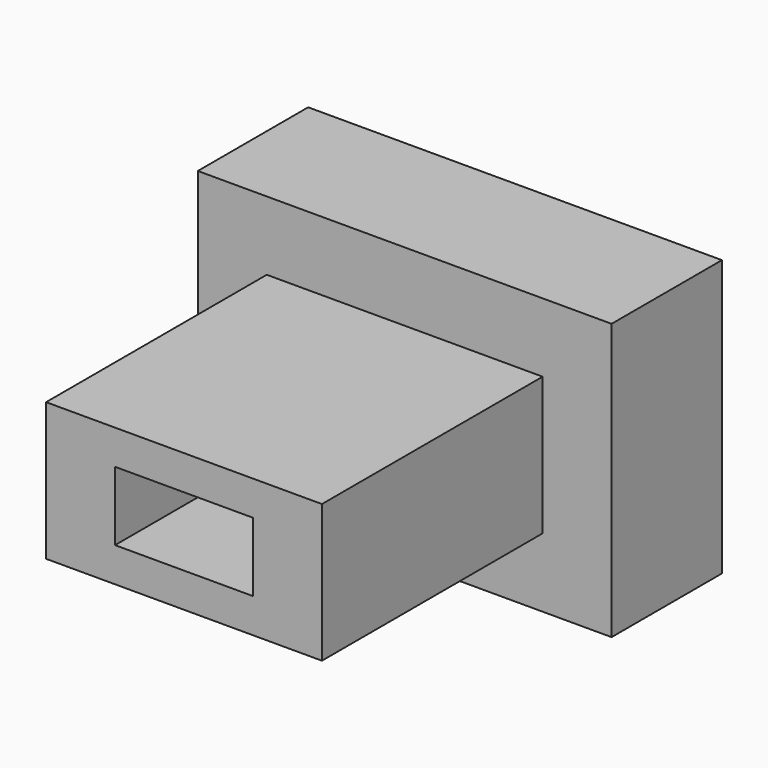
from build123d import *

# Parameters (mm, degrees)
F0_W     = 152.4
F0_H     = 101.6
F1_DEPTH = 50.8
F2_W     = 50.8
F2_H     = 25.4
F3_DEPTH = 50.801
F4_W     = 101.6
F4_H     = 50.8
F4_W_2   = 50.8
F4_H_2   = 25.4
F5_DEPTH = 101.6


with BuildPart() as f1:
    # F0 (on Front) → F1 (new body)
    with BuildSketch(Plane.XZ):
        Rectangle(F0_W, F0_H)
    extrude(amount=F1_DEPTH)

    # F2 (on face) → F3 (cut, through all)
    with BuildSketch(Plane.XZ.offset(50.8)):
        Rectangle(F2_W, F2_H)
    extrude(amount=-F3_DEPTH, mode=Mode.SUBTRACT)

    # F4 (on face) → F5 (join)
    with BuildSketch(Plane.XZ.offset(50.8)):
        Rectangle(F4_W, F4_H)
        Rectangle(F4_W_2, F4_H_2, mode=Mode.SUBTRACT)
    extrude(amount=F5_DEPTH)


solid = f1.part
